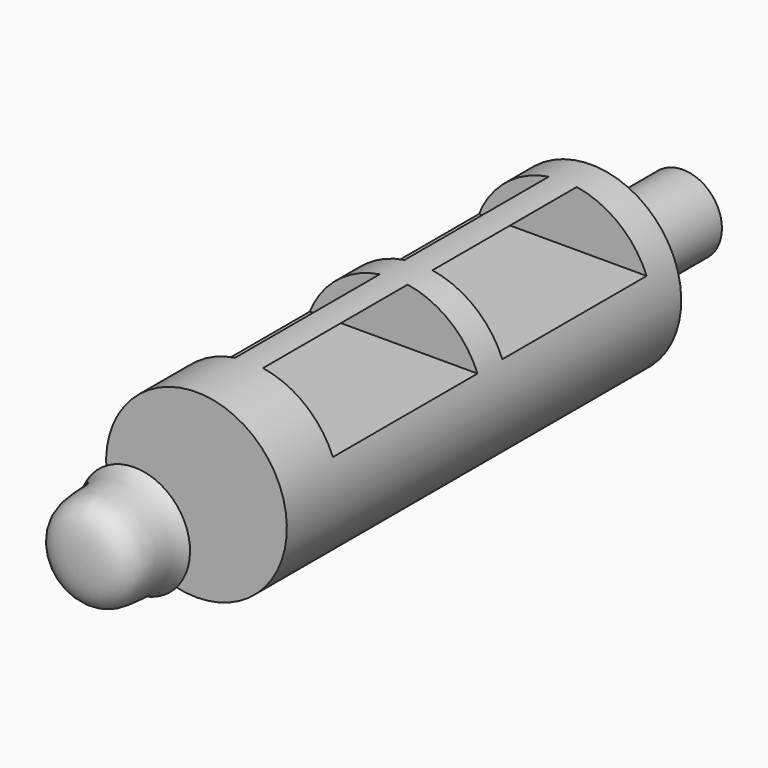
from build123d import *

# Parameters (mm, degrees)
F0_W     = 30
F0_H     = 5.5
F2_R     = 2.375
F3_DEPTH = 22
F6_W     = 11
F6_H     = 3.3831604108
F6_W_2   = 10.9763208394
F7_DEPTH = 12.5


with BuildPart() as f1:
    # F0 (on Right) → F1 (revolve)
    with BuildSketch(Plane.YZ):
        with Locations((0, -2.75)):
            Rectangle(F0_W, F0_H)
    revolve(axis=Axis((0, -0.666433014, 0), (0, 1, 0)))

    # F2 (on Front) → F3 (join)
    with BuildSketch(Plane.XZ):
        Circle(F2_R)
    extrude(amount=-F3_DEPTH)

    # F6 (on Right) → F7 (cut, symmetric)
    with BuildSketch(Plane.YZ):
        with Locations((-5.5, 3.7424566898)):
            Rectangle(F6_W, F6_H)
        with Locations((7.3770062923, 3.7424566898)):
            Rectangle(F6_W_2, F6_H)
    extrude(amount=F7_DEPTH, both=True, mode=Mode.SUBTRACT)


with BuildPart() as f5:
    # F4 (on Right) → F5 (revolve)
    with BuildSketch(Plane.YZ):
        with BuildLine():
            Line((-19.7167880833, 0), (-19.7167880833, 3.3832169138))
            add(Edge.make_bspline(
                [(-23.9435881376, 0), (-24.0535903722, 4.3109175749), (-21.3206969202, 2.3273658007), (-19.7167880833, 3.3832169138)],
                knots=[0, 0, 0, 0, 5.4140553548, 5.4140553548, 5.4140553548, 5.4140553548], degree=3))
            Line((-23.9435881376, 0), (-19.7167880833, 0))
        make_face()
    revolve(axis=Axis((0, -0.666433014, 0), (0, 1, 0)))


solid = Compound([f1.part, f5.part])
